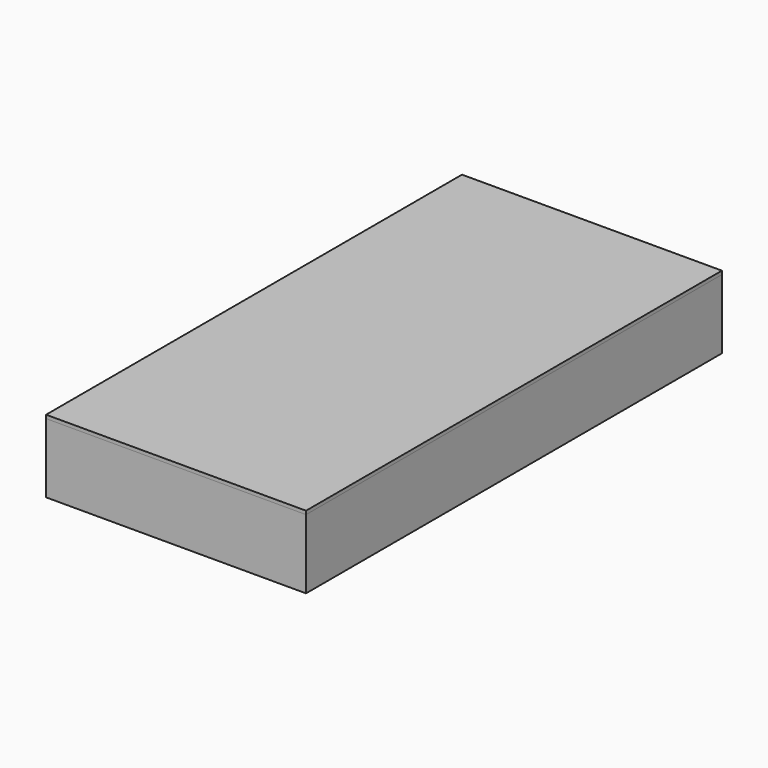
from build123d import *

# Parameters (mm, degrees)
F0_W     = 150
F0_H     = 300
F1_DEPTH = 3
F2_W     = 9.3829005957
F2_H     = 280
F3_DEPTH = 37
F5_W     = 150
F5_H     = 37
F6_DEPTH = 10
F7_W     = 150
F7_H     = 300
F8_DEPTH = 2


with BuildPart() as f1:
    # F0 (on Top) → F1 (new body)
    with BuildSketch(Plane.XY):
        Rectangle(F0_W, F0_H)
    extrude(amount=F1_DEPTH)

    # F2 (on face) → F3 (join)
    with BuildSketch(Plane.XY.offset(3)):
        Polygon((-75, -140), (-75, -150), (75, -150), (75, -140), (65.6170994043, -140), align=None)
        with Locations((70.3085497022, 0)):
            Rectangle(F2_W, F2_H)
    extrude(amount=F3_DEPTH)

    # F4: F1 across plane


with BuildPart() as f1_1:
    add(f1.part)
    add(f1.part.mirror(Plane.YZ))

    # F5 (on face) → F6 (join)
    with BuildSketch(Plane(origin=(0, 140, 0), x_dir=(-1, 0, 0), z_dir=(0, 1, 0))):
        with Locations((0, 21.5)):
            Rectangle(F5_W, F5_H)
    extrude(amount=F6_DEPTH)


with BuildPart() as f8:
    # F7 (on face) → F8 (new body)
    with BuildSketch(Plane.XY.offset(40)):
        Rectangle(F7_W, F7_H)
    extrude(amount=F8_DEPTH)


solid = Compound([f1_1.part, f8.part])
